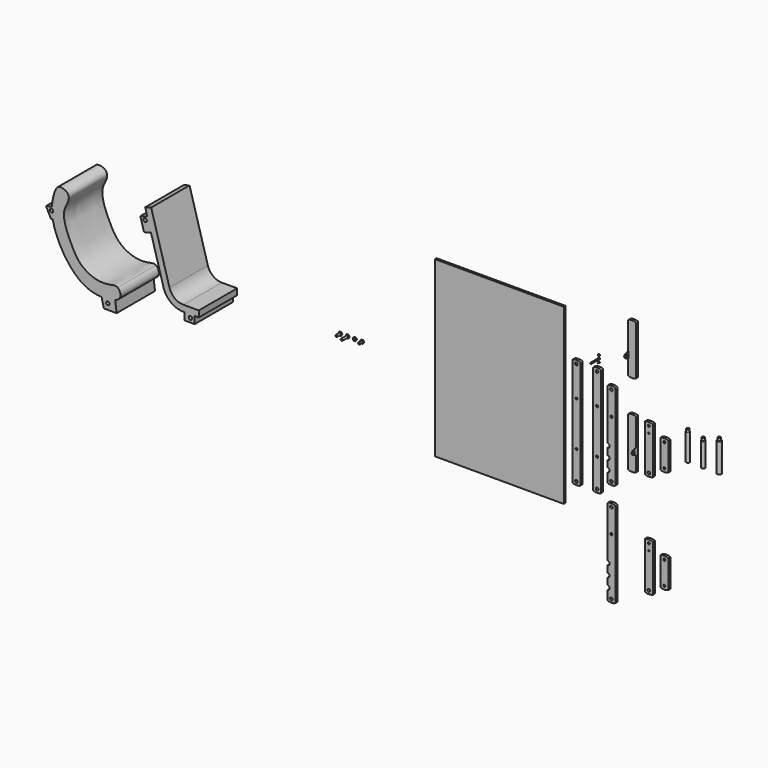
from build123d import *

# Parameters (mm, degrees)
F0_R           = 12.8
F0_R_2         = 10
F1_DEPTH       = 25
F2_R           = 12.8
F2_R_2         = 10
F3_DEPTH       = 25
F5_DEPTH       = 25
F6_R           = 6
F7_DEPTH       = 77
F8_R           = 10
F8_2_R         = 10
F8_3_R         = 10
F9_R           = 12.8
F9_R_2         = 6
F9_R_3         = 10
F10_DEPTH      = 25
F11_R          = 10
F12_DEPTH      = 25
F13_W          = 1247.740060091
F13_H          = 1678.5073876381
F14_DEPTH      = 20
F15_R          = 17.5
F16_DEPTH      = 257
F16_DEPTH_BACK = 257
F17_R          = 17.5
F18_DEPTH      = 232
F18_DEPTH_BACK = 232
F19_R          = 20
F20_DEPTH      = 282
F20_DEPTH_BACK = 282
F21_R          = 20
F22_DEPTH      = 25
F24_W          = 5
F24_H          = 60
F26_DEPTH      = 3
F27_R          = 20
F28_DEPTH      = 25
F23_R          = 10
F29_DEPTH      = 5
F30_R          = 2
F32_DEPTH      = 464
F37_R          = 200
F38_R          = 140
F39_W          = 100
F39_H          = 70
F39_R          = 16.5
F40_DEPTH      = 464
F41_R          = 12.8
F42_DEPTH      = 25
F43_R          = 12.8
F44_DEPTH      = 25
F45_R          = 12.8
F46_DEPTH      = 25
F47_R          = 12.8
F48_DEPTH      = 25
F49_R          = 12.8
F50_DEPTH      = 25
F51_R          = 12.8
F52_DEPTH      = 25
F54_DEPTH      = 8
F53_R          = 10
F55_R          = 10
F56_DEPTH      = 42
F57_R          = 10
F58_DEPTH      = 67
F59_R          = 10
F60_DEPTH      = 30
F61_R          = 10
F62_DEPTH      = 8
F65_DEPTH      = 5
F64_R          = 6
F66_R          = 6
F67_DEPTH      = 97
F69_DEPTH      = 3
F70_R          = 4
F71_DEPTH      = 13
F72_R          = 16.5
F73_DEPTH      = 464
F74_R          = 10
F75_DEPTH      = 5
F76_W          = 451.9973993301
F76_H          = 145.6054002047
F77_DEPTH      = 307


with BuildPart() as f1:
    # F0 (on Front) → F1 (new body)
    with BuildSketch(Plane.XZ):
        with BuildLine():
            ThreePointArc((38.5, 525.6), (0, 533.3083427389), (-38.5, 525.6))
            Line((-38.5, 525.6), (-38.5, -525.6))
            ThreePointArc((-38.5, -525.6), (0, -533.3083427389), (38.5, -525.6))
            Line((38.5, -525.6), (38.5, 525.6))
        make_face()
        with Locations((0, -500)):
            Circle(F0_R, mode=Mode.SUBTRACT)
        with Locations((0, -225)):
            Circle(F0_R_2, mode=Mode.SUBTRACT)
        with Locations((0, 205)):
            Circle(F0_R_2, mode=Mode.SUBTRACT)
        with Locations((0, 500)):
            Circle(F0_R, mode=Mode.SUBTRACT)
    extrude(amount=F1_DEPTH)

    # F8
    f8_edges = [f1.edges().sort_by_distance(p)[0] for p in [
        (38.5, -12.5, 525.6),
        (-38.5, -12.5, 525.6),
        (38.5, -12.5, -525.6),
        (-38.5, -12.5, -525.6),
    ]]
    fillet(f8_edges, radius=F8_R)


with BuildPart() as f3:
    # F2 (on Front) → F3 (new body)
    with BuildSketch(Plane.XZ):
        with BuildLine():
            ThreePointArc((177, 415.6), (138.5, 423.3083427389), (100, 415.6))
            Line((100, 415.6), (100, -415.6))
            ThreePointArc((100, -415.6), (138.5, -423.3083427389), (177, -415.6))
            Line((177, -415.6), (177, 415.6))
        make_face()
        with Locations((138.5, -390)):
            Circle(F2_R, mode=Mode.SUBTRACT)
        with Locations((138.5, 160)):
            Circle(F2_R_2, mode=Mode.SUBTRACT)
        with Locations((138.5, 390)):
            Circle(F2_R, mode=Mode.SUBTRACT)
    extrude(amount=F3_DEPTH)

    # F8#2
    f8_2_edges = [f3.edges().sort_by_distance(p)[0] for p in [
        (100, -12.5, -415.6),
        (177, -12.5, -415.6),
        (100, -12.5, 415.6),
        (177, -12.5, 415.6),
    ]]
    fillet(f8_2_edges, radius=F8_2_R)

    # F21 (on face) → F22 (cut)
    with BuildSketch(Plane.XZ.offset(25)):
        with Locations((100, -96)):
            Circle(F21_R)
    extrude(amount=-F22_DEPTH, mode=Mode.SUBTRACT)

    # F27 (on face) → F28 (cut)
    with BuildSketch(Plane.XZ.offset(25)):
        with Locations((100, -306)):
            Circle(F27_R)
        with Locations((100, -201)):
            Circle(F27_R)
    extrude(amount=-F28_DEPTH, mode=Mode.SUBTRACT)

    # F30
    f30_edges = [f3.edges().sort_by_distance(p)[0] for p in [
        (120, -25, -96),
        (100, -12.5, -116),
        (120, 0, -96),
        (100, -12.5, -76),
        (120, 0, -201),
        (100, -12.5, -181),
        (120, -25, -201),
        (100, -12.5, -221),
        (120, 0, -306),
        (100, -12.5, -286),
        (120, -25, -306),
        (100, -12.5, -326),
    ]]
    fillet(f30_edges, radius=F30_R)


with BuildPart() as f5:
    # F4 (on Front) → F5 (new body)
    with BuildSketch(Plane.XZ):
        with BuildLine():
            ThreePointArc((377, 238.1), (338.5, 245.8083427389), (300, 238.1))
            Line((300, 238.1), (300, -238.1))
            ThreePointArc((300, -238.1), (338.5, -245.8083427389), (377, -238.1))
            Line((377, -238.1), (377, 238.1))
        make_face()
    extrude(amount=F5_DEPTH)

    # F6 (on face) → F7 (cut, through all)
    with BuildSketch(Plane.YZ.offset(377)):
        with Locations((-12.5, 212.5)):
            Circle(F6_R)
    extrude(amount=-F7_DEPTH, mode=Mode.SUBTRACT)

    # F8#3
    f8_3_edges = [f5.edges().sort_by_distance(p)[0] for p in [
        (377, -12.5, -238.1),
        (300, -12.5, -238.1),
        (377, -12.5, 238.1),
        (300, -12.5, 238.1),
    ]]
    fillet(f8_3_edges, radius=F8_3_R)


with BuildPart() as f10:
    # F9 (on Front) → F10 (new body)
    with BuildSketch(Plane.XZ):
        with BuildLine():
            ThreePointArc((538.5, 225.6), (500, 233.3083427389), (461.5, 225.6))
            Line((461.5, 225.6), (461.5, -225.6))
            ThreePointArc((461.5, -225.6), (500, -233.3083427389), (538.5, -225.6))
            Line((538.5, -225.6), (538.5, 225.6))
        make_face()
        with Locations((500, -200)):
            Circle(F9_R, mode=Mode.SUBTRACT)
        with Locations((500, 138)):
            Circle(F9_R_2, mode=Mode.SUBTRACT)
        with Locations((500, 200)):
            Circle(F9_R_3, mode=Mode.SUBTRACT)
    extrude(amount=F10_DEPTH)


with BuildPart() as f12:
    # F11 (on Front) → F12 (new body)
    with BuildSketch(Plane.XZ):
        with BuildLine():
            ThreePointArc((688.5, 135.6), (650, 143.3083427389), (611.5, 135.6))
            Line((611.5, 135.6), (611.5, -137.6))
            ThreePointArc((611.5, -137.6), (650, -145.3083427389), (688.5, -137.6))
            Line((688.5, -137.6), (688.5, 135.6))
        make_face()
        with Locations((650, -112)):
            Circle(F11_R, mode=Mode.SUBTRACT)
        with Locations((650, 110)):
            Circle(F11_R, mode=Mode.SUBTRACT)
    extrude(amount=F12_DEPTH)


with BuildPart() as f14:
    # F13 (on Front) → F14 (new body)
    with BuildSketch(Plane.XZ):
        with Locations((-949.8512595892, 103.7272512913)):
            Rectangle(F13_W, F13_H)
    extrude(amount=F14_DEPTH)


with BuildPart() as f16:
    # F15 (on Top) → F16 (new body, two sides)
    with BuildSketch(Plane.XY) as f16_sk:
        with Locations((857.8587174416, 0)):
            Circle(F15_R)
    extrude(amount=F16_DEPTH)
    extrude(f16_sk.sketch, amount=-F16_DEPTH_BACK)

    # F41 (on face) → F42 (join)
    with BuildSketch(Plane.XY.offset(257)):
        with Locations((857.8587174416, 0)):
            Circle(F41_R)
    extrude(amount=F42_DEPTH)

    # F43 (on face) → F44 (join)
    with BuildSketch(Plane(origin=(0, 0, -257), x_dir=(1, 0, 0), z_dir=(0, 0, -1))):
        with Locations((857.8587174416, 0)):
            Circle(F43_R)
    extrude(amount=F44_DEPTH)


with BuildPart() as f18:
    # F17 (on Top) → F18 (new body, two sides)
    with BuildSketch(Plane.XY) as f18_sk:
        with Locations((1006.9922208786, 0)):
            Circle(F17_R)
    extrude(amount=F18_DEPTH)
    extrude(f18_sk.sketch, amount=-F18_DEPTH_BACK)

    # F45 (on face) → F46 (join)
    with BuildSketch(Plane(origin=(0, 0, -232), x_dir=(1, 0, 0), z_dir=(0, 0, -1))):
        with Locations((1006.9922208786, 0)):
            Circle(F45_R)
    extrude(amount=F46_DEPTH)

    # F47 (on face) → F48 (join)
    with BuildSketch(Plane.XY.offset(232)):
        with Locations((1006.9922208786, 0)):
            Circle(F47_R)
    extrude(amount=F48_DEPTH)


with BuildPart() as f20:
    # F19 (on Top) → F20 (new body, two sides)
    with BuildSketch(Plane.XY) as f20_sk:
        with Locations((1161.1481904984, 0)):
            Circle(F19_R)
    extrude(amount=F20_DEPTH)
    extrude(f20_sk.sketch, amount=-F20_DEPTH_BACK)

    # F49 (on face) → F50 (join)
    with BuildSketch(Plane(origin=(0, 0, -282), x_dir=(1, 0, 0), z_dir=(0, 0, -1))):
        with Locations((1161.1481904984, 0)):
            Circle(F49_R)
    extrude(amount=F50_DEPTH)

    # F51 (on face) → F52 (join)
    with BuildSketch(Plane.XY.offset(282)):
        with Locations((1161.1481904984, 0)):
            Circle(F51_R)
    extrude(amount=F52_DEPTH)


with BuildPart() as f25_1:
    # F25: copy of F5
    add(f5.part.moved(Location((0, 0, 800))))

    # F74 (on face) → F75 (join)
    with BuildSketch(Plane(origin=(300, 0, 0), x_dir=(0, -1, 0), z_dir=(-1, 0, 0))):
        with BuildLine():
            Line((59.2335510407, 761.3324000165), (28, 772.5))
            Line((28, 772.5), (25, 772.5))
            Line((25, 772.5), (25, 712.5))
            Line((25, 712.5), (28, 712.5))
            Line((28, 712.5), (59.2335510407, 723.6675999835))
            ThreePointArc((59.2335510407, 723.6675999835), (72.5, 742.5), (59.2335510407, 761.3324000165))
        make_face()
        with Locations((52.5, 742.5)):
            Circle(F74_R, mode=Mode.SUBTRACT)
    extrude(amount=-F75_DEPTH)


with BuildPart() as f5_1:
    add(f5.part)

    # F24 (on face) → F26 (join)
    with BuildSketch(Plane.XZ.offset(25)):
        with Locations((374.5, -57.5)):
            Rectangle(F24_W, F24_H)
    extrude(amount=F26_DEPTH)

    # F23 (on face) → F29 (join)
    with BuildSketch(Plane.YZ.offset(377)):
        with BuildLine():
            Line((-28, -87.5), (-28, -27.5))
            Line((-28, -27.5), (-59.2335510407, -38.6675999835))
            ThreePointArc((-59.2335510407, -38.6675999835), (-72.5, -57.5), (-59.2335510407, -76.3324000165))
            Line((-59.2335510407, -76.3324000165), (-28, -87.5))
        make_face()
        with Locations((-52.5, -57.5)):
            Circle(F23_R, mode=Mode.SUBTRACT)
    extrude(amount=-F29_DEPTH)


with BuildPart() as f32:
    # F31 (on Front) → F32 (new body)
    with BuildSketch(Plane.XZ):
        Polygon((-4018.256848581, 769.6518356033), (-3800, 0), (-3500, 0), (-3500, 60), (-3754.648858782, 60), (-3960.5329609108, 786.0210992468), align=None)
    extrude(amount=F32_DEPTH)

    # F37
    f37_edges = [f32.edges().sort_by_distance(p)[0] for p in [
        (-3800, -232, 0),
    ]]
    fillet(f37_edges, radius=F37_R)

    # F38
    f38_edges = [f32.edges().sort_by_distance(p)[0] for p in [
        (-3754.648859, -232, 60),
    ]]
    fillet(f38_edges, radius=F38_R)

    # F39 (on face) → F40 (join, through all)
    with BuildSketch(Plane.XZ.offset(464)):
        with Locations((-3590, -35)):
            Rectangle(F39_W, F39_H)
        with Locations((-3580, -30)):
            Circle(F39_R, mode=Mode.SUBTRACT)
        Polygon((-3962.4208914776, 572.7542483948), (-3997.887629372, 697.8226716803), (-4065.2321649873, 678.7251974295), (-4029.7654270929, 553.656774144), align=None)
        with Locations((-4018.5649413853, 660.7760960234)):
            Circle(F39_R, mode=Mode.SUBTRACT)
    extrude(amount=-F40_DEPTH)


with BuildPart() as f33_1:
    # F33: copy of F1
    add(f1.part.moved(Location((-200, 0, 0))))


with BuildPart() as f34_1:
    # F34: copy of F3
    add(f3.part.moved(Location((0, 0, -1000))))


with BuildPart() as f35_1:
    # F35: copy of F10
    add(f10.part.moved(Location((0, 0, -1000))))


with BuildPart() as f36_1:
    # F36: copy of F12
    add(f12.part.moved(Location((0, 0, -1000))))


with BuildPart() as f54:
    # F53 (on Front) → F54 (new body)
    with BuildSketch(Plane.XZ):
        Polygon((-2491.3397459622, 15), (-2508.6602540378, 15), (-2517.3205080757, 0), (-2508.6602540378, -15), (-2491.3397459622, -15), (-2482.6794919243, 0), align=None)
    extrude(amount=F54_DEPTH)

    # F55 (on face) → F56 (join)
    with BuildSketch(Plane.XZ.offset(8)):
        with Locations((-2500, 0)):
            Circle(F55_R)
    extrude(amount=F56_DEPTH)


with BuildPart() as f54b:
    # F53 (on Front) → F54, piece 2 (new body)
    with BuildSketch(Plane.XZ):
        Polygon((-2421.3397459622, 15), (-2438.6602540378, 15), (-2447.3205080757, 0), (-2438.6602540378, -15), (-2421.3397459622, -15), (-2412.6794919243, 0), align=None)
    extrude(amount=F54_DEPTH)

    # F57 (on face) → F58 (join)
    with BuildSketch(Plane.XZ.offset(8)):
        with Locations((-2430, 0)):
            Circle(F57_R)
    extrude(amount=F58_DEPTH)


with BuildPart() as f54c:
    # F53 (on Front) → F54, piece 3 (new body)
    with BuildSketch(Plane.XZ):
        Polygon((-2351.3397459622, 15), (-2368.6602540378, 15), (-2377.3205080757, 0), (-2368.6602540378, -15), (-2351.3397459622, -15), (-2342.6794919243, 0), align=None)
        with Locations((-2360, 0)):
            Circle(F53_R, mode=Mode.SUBTRACT)
    extrude(amount=F54_DEPTH)


with BuildPart() as f54d:
    # F53 (on Front) → F54, piece 4 (new body)
    with BuildSketch(Plane.XZ):
        Polygon((-2281.3397459622, 15), (-2298.6602540378, 15), (-2307.3205080757, 0), (-2298.6602540378, -15), (-2281.3397459622, -15), (-2272.6794919243, 0), align=None)
    extrude(amount=F54_DEPTH)

    # F59 (on face) → F60 (join)
    with BuildSketch(Plane.XZ.offset(8)):
        with Locations((-2290, 0)):
            Circle(F59_R)
    extrude(amount=F60_DEPTH)


with BuildPart() as f1_1:
    add(f1.part)

    # F61 (on face) → F62 (cut)
    with BuildSketch(Plane.XZ.offset(25)):
        with Locations((500, 138)):
            Circle(F61_R)
    extrude(amount=F62_DEPTH, mode=Mode.SUBTRACT)


with BuildPart() as f65:
    # F64 (on Front) → F65 (new body)
    with BuildSketch(Plane.XZ):
        Polygon((4.6188021535, 608), (-4.6188021535, 608), (-9.237604307, 600), (-4.6188021535, 592), (4.6188021535, 592), (9.237604307, 600), align=None)
    extrude(amount=F65_DEPTH)

    # F66 (on face) → F67 (join)
    with BuildSketch(Plane.XZ.offset(5)):
        with Locations((0, 600)):
            Circle(F66_R)
    extrude(amount=F67_DEPTH)


with BuildPart() as f65b:
    # F64 (on Front) → F65, piece 2 (new body)
    with BuildSketch(Plane.XZ):
        Polygon((4.6188021535, 638), (-4.6188021535, 638), (-9.237604307, 630), (-4.6188021535, 622), (4.6188021535, 622), (9.237604307, 630), align=None)
        with Locations((0, 630)):
            Circle(F64_R, mode=Mode.SUBTRACT)
    extrude(amount=F65_DEPTH)


with BuildPart() as f69:
    # F68 (on Front) → F69 (new body)
    with BuildSketch(Plane.XZ):
        Polygon((4.0414518843, 577), (-4.0414518843, 577), (-8.0829037687, 570), (-4.0414518843, 563), (4.0414518843, 563), (8.0829037687, 570), align=None)
    extrude(amount=F69_DEPTH)

    # F70 (on face) → F71 (join)
    with BuildSketch(Plane.XZ.offset(3)):
        with Locations((0, 570)):
            Circle(F70_R)
    extrude(amount=F71_DEPTH)


with BuildPart() as f73:
    # F72 (on Front) → F73 (new body, through all)
    with BuildSketch(Plane.XZ):
        with BuildLine():
            ThreePointArc((-4920.9502491948, 462.0097111177), (-4911.5568183276, 456.2543523204), (-4907.8792214082, 445.869941926))
            ThreePointArc((-4907.8792214082, 445.869941926), (-4911.1891040412, 435.9567787656), (-4919.7908339955, 430.0207557971))
            add(Edge.make_bspline(
                [(-4912.2764153591, 375.6879139776), (-4915.8398163177, 393.9209062823), (-4918.4168826579, 412.1038315739), (-4919.7908339955, 430.020755797)],
                knots=[0.3577641631, 0.3577641631, 0.3577641631, 0.3577641631, 0.3774115815, 0.3774115815, 0.3774115815, 0.3774115815], degree=3))
            add(Edge.make_bspline(
                [(-4439.6719971881, -130.6891403251), (-4469.4841462447, -129.1540904431), (-4611.1618321975, -108.4017687232), (-4758.404163816, 34.6027118759), (-4858.6474546257, 198.5059970599), (-4902.0875649154, 323.5542265548), (-4912.2764153591, 375.6879139776)],
                knots=[0.1120496442, 0.1120496442, 0.1120496442, 0.1120496442, 0.1359109657, 0.2240650481, 0.3015862, 0.3577641631, 0.3577641631, 0.3577641631, 0.3577641631], degree=3))
            add(Edge.make_bspline(
                [(-4308.2491358087, -114.8879440492), (-4342.6196242776, -127.934802081), (-4390.6485574203, -133.2133939536), (-4439.6719971881, -130.6891403251)],
                knots=[0.0728118136, 0.0728118136, 0.0728118136, 0.0728118136, 0.1120496442, 0.1120496442, 0.1120496442, 0.1120496442], degree=3))
            add(Edge.make_bspline(
                [(-4285.5487082576, 0), (-4263.7296710402, -14.626885752), (-4239.0466362573, -74.1768382411), (-4287.5975324985, -107.0487032202), (-4308.2491358087, -114.8879440492)],
                knots=[0, 0, 0, 0, 0.0492356542, 0.0728118136, 0.0728118136, 0.0728118136, 0.0728118136], degree=3))
            add(Edge.make_bspline(
                [(-4920.3445877249, 482.8762718747), (-4917.863721168, 529.041289882), (-4899.8413510171, 607.712734007), (-4869.3165254482, 675.9187388081), (-4816.3581049196, 676.1631696587), (-4759.8056367954, 650.5794052602), (-4749.8176975338, 579.2269937168), (-4838.5649009267, 466.9638573939), (-4736.3054159917, 218.9333806067), (-4644.3167425239, 61.3172738431), (-4484.4591422486, -11.1565789742), (-4361.5925202796, -5.3538341752), (-4305.550806956, 13.4088598662), (-4285.5487082576, 0)],
                knots=[0.3971093078, 0.3971093078, 0.3971093078, 0.3971093078, 0.4499969179, 0.4949645246, 0.530464668, 0.5703302061, 0.6109172399, 0.6705985767, 0.7551348906, 0.8280552268, 0.8959568714, 0.9548643505, 1, 1, 1, 1], degree=3))
            add(Edge.make_bspline(
                [(-4920.9502491948, 462.0097111177), (-4920.9227854693, 469.0357917982), (-4920.7142997355, 475.9965138417), (-4920.3445877249, 482.8762718747)],
                knots=[0.3892277131, 0.3892277131, 0.3892277131, 0.3892277131, 0.3971093078, 0.3971093078, 0.3971093078, 0.3971093078], degree=3))
        make_face()
        with BuildLine():
            ThreePointArc((-4919.7908339955, 430.0207557971), (-4940.8683945066, 445.2723044689), (-4920.9502491948, 462.0097111177))
            add(Edge.make_bspline(
                [(-4920.9502491948, 462.0097111177), (-4920.9227854693, 469.0357917982), (-4920.7142997355, 475.9965138417), (-4920.3445877249, 482.8762718747)],
                knots=[0.3892277131, 0.3892277131, 0.3892277131, 0.3892277131, 0.3971093078, 0.3971093078, 0.3971093078, 0.3971093078], degree=3))
            Line((-4920.3445877249, 482.8762718747), (-4976.5352961587, 468.1484616543))
            Line((-4976.5352961587, 468.1484616543), (-4929.9644619914, 375.6879139776))
            Line((-4929.9644619914, 375.6879139776), (-4912.2764153591, 375.6879139776))
            add(Edge.make_bspline(
                [(-4912.2764153591, 375.6879139776), (-4915.8398163177, 393.9209062823), (-4918.4168826579, 412.1038315739), (-4919.7908339955, 430.020755797)],
                knots=[0.3577641631, 0.3577641631, 0.3577641631, 0.3577641631, 0.3774115815, 0.3774115815, 0.3774115815, 0.3774115815], degree=3))
        make_face()
        with BuildLine():
            add(Edge.make_bspline(
                [(-4308.2491358087, -114.8879440492), (-4342.6196242776, -127.934802081), (-4390.6485574203, -133.2133939536), (-4439.6719971881, -130.6891403251)],
                knots=[0.0728118136, 0.0728118136, 0.0728118136, 0.0728118136, 0.1120496442, 0.1120496442, 0.1120496442, 0.1120496442], degree=3))
            Line((-4439.6719971881, -130.6891403251), (-4418.4968330557, -221.8165908457))
            Line((-4418.4968330557, -221.8165908457), (-4294.2614000862, -221.8165908457))
            Line((-4294.2614000862, -221.8165908457), (-4308.2491358087, -114.8879440492))
        make_face()
        with Locations((-4380, -165)):
            Circle(F72_R, mode=Mode.SUBTRACT)
    extrude(amount=F73_DEPTH)


with BuildPart() as f77_tool:
    # F76 (on face) → F77 (new body)
    with BuildSketch(Plane(origin=(0, 0, -307), x_dir=(1, 0, 0), z_dir=(0, 0, -1))):
        with Locations((1032.4324965477, -7.4074938893)):
            Rectangle(F76_W, F76_H)
    extrude(amount=-F77_DEPTH)


with BuildPart() as f16_1:
    add(f16.part)

    # F77: cut by f77_tool
    add(f77_tool.part, mode=Mode.SUBTRACT)


with BuildPart() as f18_1:
    add(f18.part)

    # F77: cut by f77_tool
    add(f77_tool.part, mode=Mode.SUBTRACT)


with BuildPart() as f20_1:
    add(f20.part)

    # F77: cut by f77_tool
    add(f77_tool.part, mode=Mode.SUBTRACT)


solid = Compound([f3.part, f10.part, f12.part, f14.part, f25_1.part, f5_1.part, f32.part, f33_1.part, f34_1.part, f35_1.part, f36_1.part, f54.part, f54b.part, f54c.part, f54d.part, f1_1.part, f65.part, f65b.part, f69.part, f73.part, f16_1.part, f18_1.part, f20_1.part])
